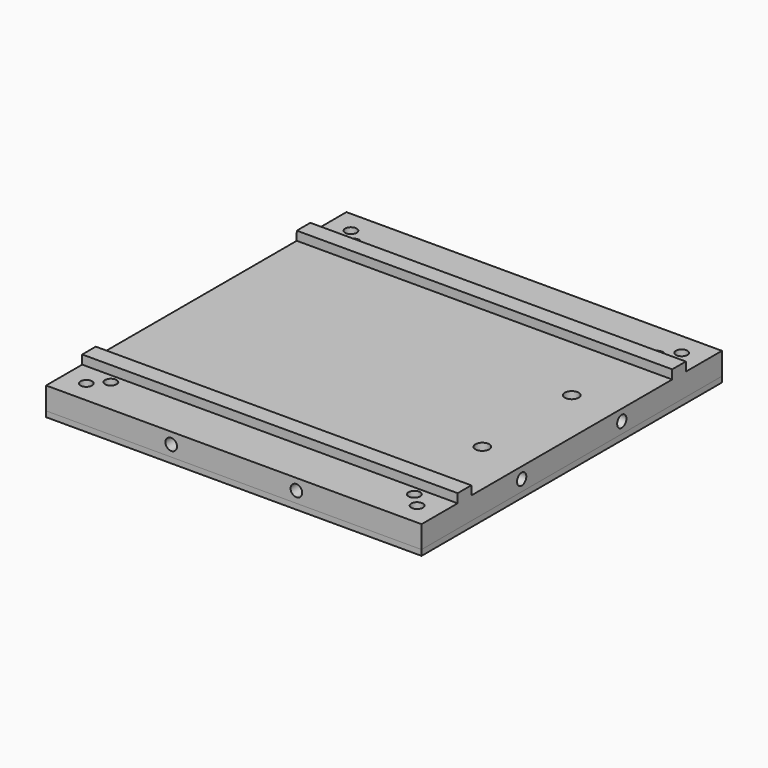
from build123d import *

# Parameters (mm, degrees)
PAD015_DEPTH         = 84
SKETCH025_R          = 3
POCKET009_DEPTH      = 3.1
SKETCH026_R          = 1.55
POCKET010_DEPTH      = 3.9054430506
SKETCH029_R          = 1.3
POCKET013_DEPTH      = 5.0055349839
SKETCH036_R          = 1.3
POCKET018_DEPTH      = 7.0054430506
SKETCH040_R          = 1.3
POCKET021_DEPTH      = 7.0054430506
POCKET021_FACE10_W   = 84
POCKET021_FACE10_H   = 84
POCKET021_FACE10_R   = 1.3
POCKET021_FACE10_R_2 = 3
PAD021_DEPTH         = 1.25
SKETCH041_R          = 1.3
POCKET022_DEPTH      = 6
SKETCH042_R          = 1.3
POCKET023_DEPTH      = 6
SKETCH043_R          = 1.3
POCKET024_DEPTH      = 6
SKETCH044_R          = 1.3
POCKET025_DEPTH      = 6


with BuildPart() as part:
    # Sketch024 (on DatumPlane) → Pad015 (new body)
    with BuildSketch(Plane(origin=(42.0007630338, 0.0001547258, 16.9985727734), x_dir=(0, -1, 9.1023e-06), z_dir=(0.999999999, -4e-10, -4.48856e-05))):
        Polygon((-42, 22.85), (-31.9, 22.85), (-31.9, 20.85), (-28.1, 20.85), (-28.1, 22.85), (28.1, 22.85), (28.1, 20.85), (31.9, 20.85), (31.9, 22.85), (42, 22.85), (42, 27.85), (-42, 27.85), align=None)
    extrude(amount=-PAD015_DEPTH)

    # Sketch025 (on Face11 of Pad015) → Pocket009 (cut)
    with BuildSketch(Plane(origin=(41.9995129693, -9.87728e-05, -10.8514271974), x_dir=(0, 1, -9.1023e-06), z_dir=(-4.48856e-05, -9.1023e-06, -0.999999999))):
        with Locations((-12.5, -10)):
            Circle(SKETCH025_R)
        with Locations((12.5, -10)):
            Circle(SKETCH025_R)
    extrude(amount=-POCKET009_DEPTH, mode=Mode.SUBTRACT)

    # Sketch026 (on Face17 of Pocket009) → Pocket010 (cut, through all)
    with BuildSketch(Plane(origin=(41.9996521147, -7.05557e-05, -7.7514272007), x_dir=(0, 1, -9.1023e-06), z_dir=(-4.48856e-05, -9.1023e-06, -0.999999999))):
        with Locations((-12.5, -10)):
            Circle(SKETCH026_R)
        with Locations((12.5, -10)):
            Circle(SKETCH026_R)
    extrude(amount=-POCKET010_DEPTH, mode=Mode.SUBTRACT)

    # Sketch029 (on Face13 of Pocket010) → Pocket013 (cut, through all)
    with BuildSketch(Plane(origin=(41.9997373974, -5.32613e-05, -5.8514272027), x_dir=(0, -1, 9.1023e-06), z_dir=(4.48856e-05, 9.1023e-06, 0.999999999))):
        with Locations((37, -5)):
            Circle(SKETCH029_R)
        with Locations((-37, -5)):
            Circle(SKETCH029_R)
    extrude(amount=-POCKET013_DEPTH, mode=Mode.SUBTRACT)

    # Sketch036 (on Face7 of Pocket013) → Pocket018 (cut, through all)
    with BuildSketch(Plane(origin=(41.9995129693, -9.87728e-05, -10.8514271974), x_dir=(0, 1, -9.1023e-06), z_dir=(-4.48856e-05, -9.1023e-06, -0.999999999))):
        with Locations((-37, -79)):
            Circle(SKETCH036_R)
        with Locations((37, -79)):
            Circle(SKETCH036_R)
    extrude(amount=-POCKET018_DEPTH, mode=Mode.SUBTRACT)

    # Sketch040 (on Face8 of Pocket018) → Pocket021 (cut, through all)
    with BuildSketch(Plane(origin=(41.9995129693, -9.87728e-05, -10.8514271974), x_dir=(0, 1, -9.1023e-06), z_dir=(-4.48856e-05, -9.1023e-06, -0.999999999))):
        with Locations((-33.95, -8.05)):
            Circle(SKETCH040_R)
        with Locations((-33.95, -75.95)):
            Circle(SKETCH040_R)
        with Locations((33.95, -75.95)):
            Circle(SKETCH040_R)
        with Locations((33.95, -8.05)):
            Circle(SKETCH040_R)
    extrude(amount=-POCKET021_DEPTH, mode=Mode.SUBTRACT)

    # Pocket021 Face10 → Pad021 (add)
    with BuildSketch(Plane(origin=(-0.2605938375, -9.87555e-05, -10.8495303264), x_dir=(0, -1, 9.1023e-06), z_dir=(-4.48856e-05, -9.1023e-06, -0.999999999))):
        with Locations((0, -0.2601068494)):
            Rectangle(POCKET021_FACE10_W, POCKET021_FACE10_H)
        with Locations((37, 36.7398931506)):
            Circle(POCKET021_FACE10_R, mode=Mode.SUBTRACT)
        with Locations((33.95, 33.6898931506)):
            Circle(POCKET021_FACE10_R, mode=Mode.SUBTRACT)
        with Locations((-37, 36.7398931506)):
            Circle(POCKET021_FACE10_R, mode=Mode.SUBTRACT)
        with Locations((-33.95, 33.6898931506)):
            Circle(POCKET021_FACE10_R, mode=Mode.SUBTRACT)
        with Locations((33.95, -34.2101068494)):
            Circle(POCKET021_FACE10_R, mode=Mode.SUBTRACT)
        with Locations((37, -37.2601068494)):
            Circle(POCKET021_FACE10_R, mode=Mode.SUBTRACT)
        with Locations((12.5, -32.2601068494)):
            Circle(POCKET021_FACE10_R_2, mode=Mode.SUBTRACT)
        with Locations((-12.5, -32.2601068494)):
            Circle(POCKET021_FACE10_R_2, mode=Mode.SUBTRACT)
        with Locations((-33.95, -34.2101068494)):
            Circle(POCKET021_FACE10_R, mode=Mode.SUBTRACT)
        with Locations((-37, -37.2601068494)):
            Circle(POCKET021_FACE10_R, mode=Mode.SUBTRACT)
    extrude(amount=PAD021_DEPTH)

    # Sketch041 (on Face16 of Pad021) → Pocket022 (cut)
    with BuildSketch(Plane(origin=(42.0007630338, 0.0001547258, 16.9985727734), x_dir=(0, -1, 9.1023e-06), z_dir=(0.999999999, -4e-10, -4.48856e-05))):
        with Locations((-14, 25.35)):
            Circle(SKETCH041_R)
        with Locations((14, 25.35)):
            Circle(SKETCH041_R)
    extrude(amount=-POCKET022_DEPTH, mode=Mode.SUBTRACT)

    # Sketch042 (on Face12 of Pocket022) → Pocket023 (cut)
    with BuildSketch(Plane(origin=(42.0007630338, -41.9998452724, 16.9989550693), x_dir=(-4.48856e-05, -9.1023e-06, -0.999999999), z_dir=(0, -1, 9.1023e-06))):
        with Locations((25.35, -28)):
            Circle(SKETCH042_R)
        with Locations((25.35, -56)):
            Circle(SKETCH042_R)
    extrude(amount=-POCKET023_DEPTH, mode=Mode.SUBTRACT)

    # Sketch043 (on Face4 of Pocket023) → Pocket024 (cut)
    with BuildSketch(Plane(origin=(-41.9992368816, 0.0001547602, 17.0023431654), x_dir=(0, -1, 9.1023e-06), z_dir=(-0.999999999, 4e-10, 4.48856e-05))):
        with Locations((-14, -25.35)):
            Circle(SKETCH043_R)
        with Locations((14, -25.35)):
            Circle(SKETCH043_R)
    extrude(amount=-POCKET024_DEPTH, mode=Mode.SUBTRACT)

    # Sketch044 (on Face2 of Pocket024) → Pocket025 (cut)
    with BuildSketch(Plane(origin=(42.0007630338, 42.0001547241, 16.9981904774), x_dir=(4.48856e-05, 9.1023e-06, 0.999999999), z_dir=(0, 1, -9.1023e-06))):
        with Locations((-25.35, -28)):
            Circle(SKETCH044_R)
        with Locations((-25.35, -56)):
            Circle(SKETCH044_R)
    extrude(amount=-POCKET025_DEPTH, mode=Mode.SUBTRACT)


solid = part.part
